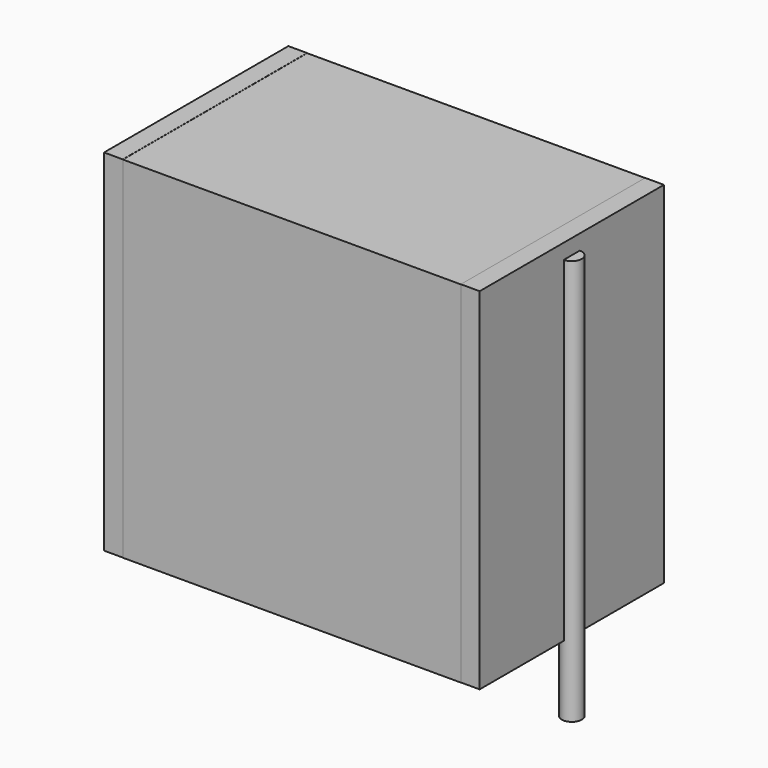
from build123d import *

# Parameters (mm, degrees)
SKETCH_W          = 13.5
SKETCH_H          = 9.2
PAD_DEPTH         = 14
SKETCH001_R       = 0.4
PAD001_DEPTH      = 13
PAD001_DEPTH_BACK = 3.2
SKETCH002_W       = 0.75
SKETCH002_H       = 9.2
PAD002_DEPTH      = 14


with BuildPart() as pad:
    # Sketch → Pad (new body)
    with BuildSketch(Plane.XY.offset(0.1)):
        with Locations((7.5, 0)):
            Rectangle(SKETCH_W, SKETCH_H)
    extrude(amount=PAD_DEPTH)


with BuildPart() as pad001:
    # Sketch001 → Pad001 (new body, two sides)
    with BuildSketch(Plane.XY.offset(0.5)) as pad001_sk:
        Circle(SKETCH001_R)
        with Locations((15, 0)):
            Circle(SKETCH001_R)
    extrude(amount=PAD001_DEPTH)
    extrude(pad001_sk.sketch, amount=-PAD001_DEPTH_BACK)


with BuildPart() as pad002:
    # Sketch002 → Pad002 (new body)
    with BuildSketch(Plane.XY.offset(0.105)):
        with Locations((0.375, 0)):
            Rectangle(SKETCH002_W, SKETCH002_H)
        with Locations((14.625, 0)):
            Rectangle(SKETCH002_W, SKETCH002_H)
    extrude(amount=PAD002_DEPTH)


solid = Compound([pad.part, pad001.part, pad002.part])
